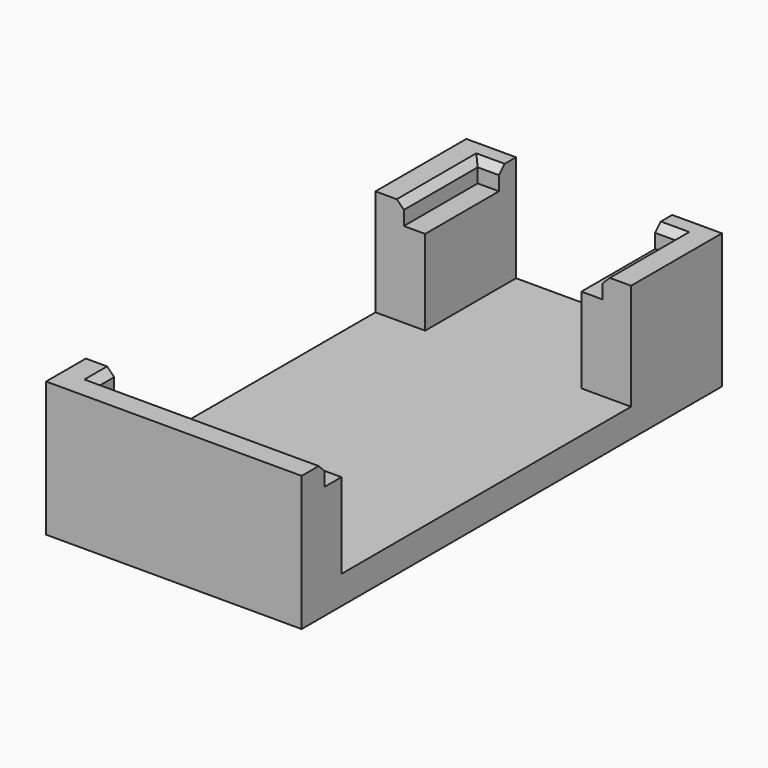
from build123d import *

# Parameters (mm, degrees)
F0_W     = 36
F0_H     = 74
F1_DEPTH = 4
F2_W     = 3
F2_H     = 13
F2_W_2   = 32
F2_H_2   = 3
F3_DEPTH = 12
F4_DEPTH = 15
F5_SIZE  = 1


with BuildPart() as f1:
    # F0 (on Top) → F1 (new body)
    with BuildSketch(Plane.XY):
        Rectangle(F0_W, F0_H)
    extrude(amount=F1_DEPTH)

    # F2 (on face) → F3 (join)
    with BuildSketch(Plane.XY.offset(4)):
        with Locations((-12.5, 27.5)):
            Rectangle(F2_W, F2_H)
        with Locations((12.5, 27.5)):
            Rectangle(F2_W, F2_H)
        with Locations((2, -31.5)):
            Rectangle(F2_W_2, F2_H_2)
    extrude(amount=F3_DEPTH)

    # F2 (on face) → F4 (join)
    with BuildSketch(Plane.XY.offset(4)):
        Polygon((-11, 37), (-18, 37), (-18, 21), (-14, 21), (-14, 34), (-11, 34), align=None)
        Polygon((18, 37), (11, 37), (11, 34), (14, 34), (14, 21), (18, 21), align=None)
        Polygon((-14, -30), (-18, -30), (-18, -37), (18, -37), (18, -33), (-14, -33), align=None)
    extrude(amount=F4_DEPTH)

    # F5
    f5_edges = [f1.edges().sort_by_distance(p)[0] for p in [
        (-14, 27.5, 19),
        (-12.5, 34, 19),
        (12.5, 34, 19),
        (14, 27.5, 19),
        (2, -33, 19),
        (-14, -31.5, 19),
    ]]
    chamfer(f5_edges, length=F5_SIZE)


solid = f1.part
